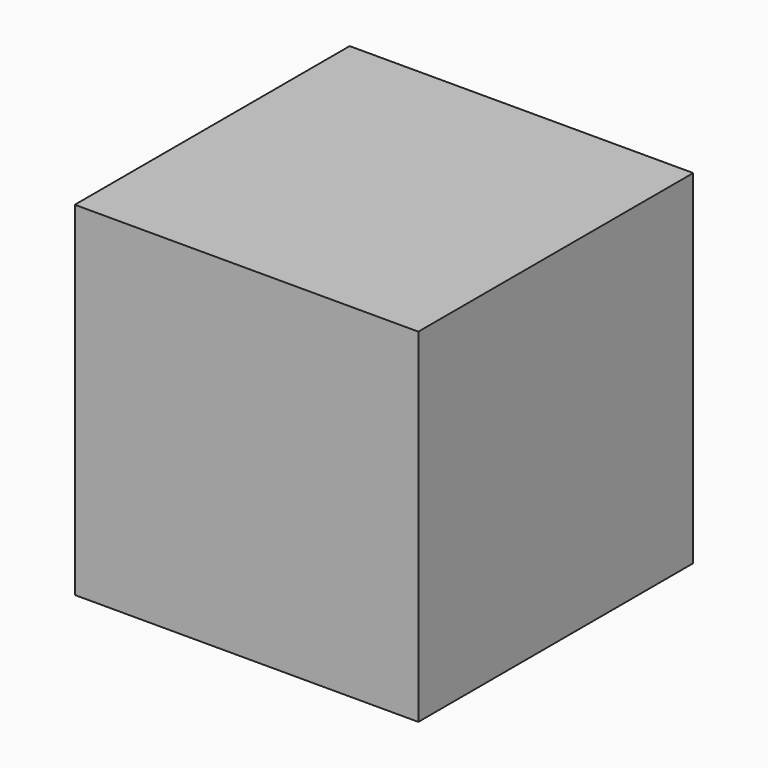
from build123d import *

# Parameters (mm, degrees)
F0_W     = 20
F0_H     = 20
F1_DEPTH = 20
F2_R     = 2.6
F3_DEPTH = 1


with BuildPart() as f1:
    # F0 (on Front) → F1 (new body)
    with BuildSketch(Plane.XZ):
        with Locations((10, 10)):
            Rectangle(F0_W, F0_H)
    extrude(amount=F1_DEPTH)

    # F2 (on face) → F3 (cut)
    with BuildSketch(Plane(origin=(0, 0, 0), x_dir=(0, -1, 0), z_dir=(-1, 0, 0))):
        with Locations((10, 10)):
            Circle(F2_R)
        with Locations((5, 15)):
            Circle(F2_R)
        with Locations((15, 15)):
            Circle(F2_R)
        with Locations((5, 5)):
            Circle(F2_R)
        with Locations((15, 5)):
            Circle(F2_R)
    extrude(amount=-F3_DEPTH, mode=Mode.SUBTRACT)


solid = f1.part
